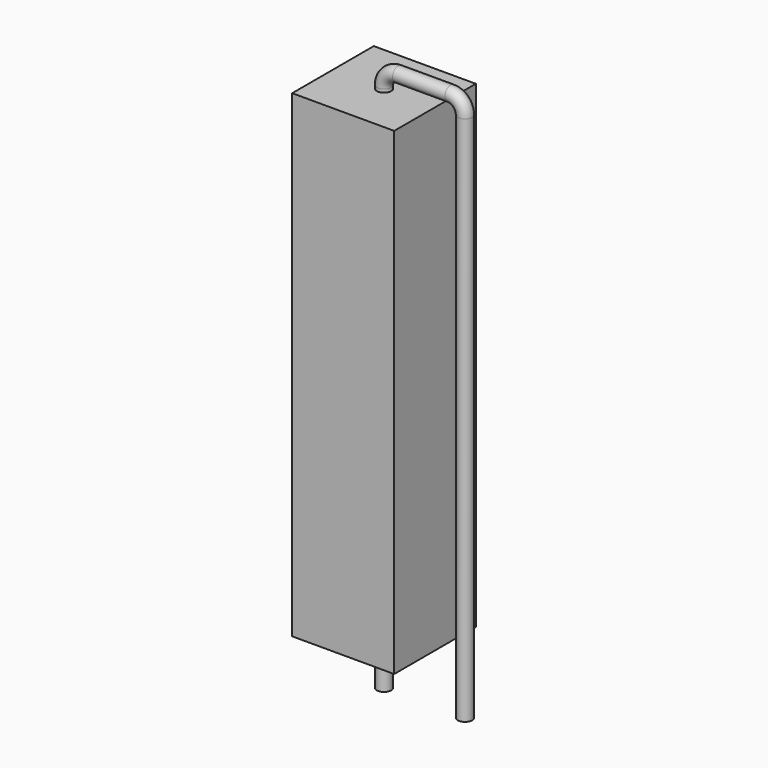
from build123d import *

# Parameters (mm, degrees)
SKETCH_R    = 0.45
SKETCH002_W = 6.4
SKETCH002_H = 30
PAD_DEPTH   = 3.2


with BuildPart() as sweep_body:
    # Sweep: sweep along a path in Sketch001
    with BuildLine(Plane.XZ) as sweep_path:
        Line((0, -3), (0, 30.3))
        ThreePointArc((0, 30.3), (0.2636, 30.936392), (0.899989, 31.2))
        Line((0.899989, 31.2), (4.18, 31.2))
        ThreePointArc((4.18, 31.2), (4.816396, 30.936396), (5.08, 30.3))
        Line((5.08, 30.3), (5.08, -3))
    # Sketch → Sweep (sweep)
    with BuildSketch(Plane.XY.offset(-2)):
        Circle(SKETCH_R)
    sweep(path=sweep_path.line)


with BuildPart() as pad:
    # Sketch002 → Pad (new body, symmetric)
    with BuildSketch(Plane.XZ):
        with Locations((0, 15.1)):
            Rectangle(SKETCH002_W, SKETCH002_H)
    extrude(amount=PAD_DEPTH, both=True)


solid = Compound([sweep_body.part, pad.part])
